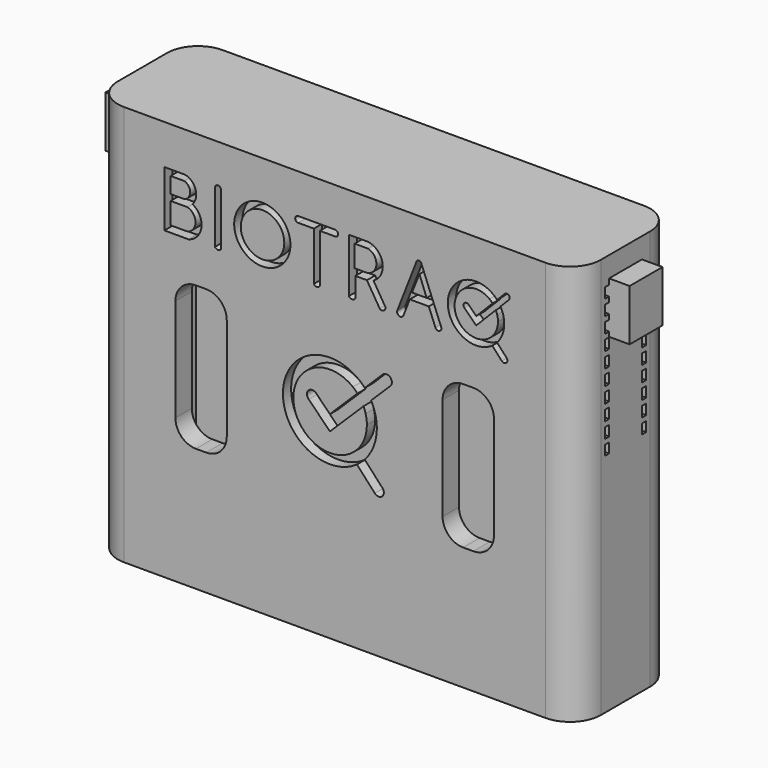
from build123d import *

# Parameters (mm, degrees)
F0_W          = 47
F0_H          = 37
F1_DEPTH      = 12
F2_T          = -2
F3_W          = 5
F3_H          = 14
F4_DEPTH      = 2
F5_R          = 2
F6_W          = 0.5
F6_H          = 15
F7_DEPTH      = 2.001
F7_DEPTH_BACK = 63.9
F8_W          = 4
F8_H          = 5
F9_DEPTH      = 2
F10_W         = 4
F10_H         = 5
F11_DEPTH     = 2
F12_W         = 0.5
F12_H         = 14.0476711094
F13_DEPTH     = 6.03
F14_W         = 0.5
F14_H         = 15
F15_DEPTH     = 7
F16_W         = 47
F16_H         = 12
F17_DEPTH     = 2
F18_W         = 43
F18_H         = 8
F19_DEPTH     = 25
F20_W         = 43
F20_H         = 0.5
F21_DEPTH     = 8.2
F23_R         = 3
F24_R         = 2.7362900033
F24_R_2       = 2.1157848832
F25_DEPTH     = 1
F26_W         = 6
F26_H         = 0.5
F27_DEPTH     = 47
F28_W         = 0.5
F28_H         = 6
F29_DEPTH     = 0.5
F30_R         = 2.9700586538
F31_DEPTH     = 0.5
F32_W         = 2
F32_H         = 0.5
F33_DEPTH     = 0.5
F34_W         = 0.5
F34_H         = 1
F35_DEPTH     = 47.7


with BuildPart() as f1:
    # F0 (on Front) → F1 (new body)
    with BuildSketch(Plane.XZ):
        with Locations((-23.5, -18.5)):
            Rectangle(F0_W, F0_H)
    extrude(amount=F1_DEPTH)

    # F2
    f2_openings = [f1.faces().sort_by_distance(p)[0] for p in [
        (-23.5, -6, 0),
    ]]
    offset(amount=F2_T, openings=f2_openings)

    # F3 (on face) → F4 (cut, through all)
    with BuildSketch(Plane.XZ.offset(12)):
        with Locations((-10.5, -18)):
            Rectangle(F3_W, F3_H)
        with Locations((-36.5, -18)):
            Rectangle(F3_W, F3_H)
    extrude(amount=-F4_DEPTH, mode=Mode.SUBTRACT)

    # F5
    f5_edges = [f1.edges().sort_by_distance(p)[0] for p in [
        (-8, -11, -11),
        (-13, -11, -11),
        (-8, -11, -25),
        (-13, -11, -25),
        (-39, -11, -25),
        (-34, -11, -25),
        (-34, -11, -11),
        (-39, -11, -11),
    ]]
    fillet(f5_edges, radius=F5_R)

    # F6 (on face) → F7 (cut, two sides)
    with BuildSketch(Plane.YZ.offset(-45)) as f7_sk:
        with Locations((-8.25, -7.5)):
            Rectangle(F6_W, F6_H)
        with Locations((-3.75, -7.5)):
            Rectangle(F6_W, F6_H)
    extrude(amount=-F7_DEPTH, mode=Mode.SUBTRACT)
    extrude(f7_sk.sketch, amount=F7_DEPTH_BACK, mode=Mode.SUBTRACT)

    # F8 (on face) → F9 (join)
    with BuildSketch(Plane(origin=(-47, 0, 0), x_dir=(0, -1, 0), z_dir=(-1, 0, 0))):
        with Locations((6, -2.5)):
            Rectangle(F8_W, F8_H)
    extrude(amount=F9_DEPTH)

    # F10 (on face) → F11 (join)
    with BuildSketch(Plane.YZ):
        with Locations((-6, -2.5)):
            Rectangle(F10_W, F10_H)
    extrude(amount=F11_DEPTH)

    # F12 (on face) → F13 (join)
    with BuildSketch(Plane(origin=(0, -8.5, 0), x_dir=(-1, 0, 0), z_dir=(0, 1, 0))):
        with Locations((0.25, -7.0238355547)):
            Rectangle(F12_W, F12_H)
    extrude(amount=F13_DEPTH)

    # F14 (on face) → F15 (join)
    with BuildSketch(Plane(origin=(0, -8.5, 0), x_dir=(-1, 0, 0), z_dir=(0, 1, 0))):
        with Locations((46.75, -7.5)):
            Rectangle(F14_W, F14_H)
    extrude(amount=F15_DEPTH)

    # F16 (on face) → F17 (join)
    with BuildSketch(Plane.XY):
        with Locations((-23.5, -6)):
            Rectangle(F16_W, F16_H)
    extrude(amount=F17_DEPTH)

    # F18 (on face) → F19 (cut)
    with BuildSketch(Plane.XY.offset(-35)):
        with Locations((-23.5, -6)):
            Rectangle(F18_W, F18_H)
    extrude(amount=-F19_DEPTH, mode=Mode.SUBTRACT)

    # F20 (on face) → F21 (join)
    with BuildSketch(Plane(origin=(0, -10, 0), x_dir=(-1, 0, 0), z_dir=(0, 1, 0))):
        with Locations((23.5, -35.75)):
            Rectangle(F20_W, F20_H)
    extrude(amount=F21_DEPTH)

    # F23
    f23_edges = [f1.edges().sort_by_distance(p)[0] for p in [
        (-47, 0, -17.5),
        (-47, -12, -17.5),
        (0, -12, -17.5),
        (0, 0, -17.5),
    ]]
    fillet(f23_edges, radius=F23_R)

    # F24 (on face) → F25 (cut)
    with BuildSketch(Plane.XZ.offset(12)):
        with BuildLine():
            ThreePointArc((-20.5728843201, -20.5795478926), (-19.6984030514, -19.1565371108), (-19.3933401324, -17.5144001525))
            ThreePointArc((-19.3933401324, -17.5144001525), (-19.4712159392, -16.6741155837), (-19.7021905835, -15.8624546253))
            Line((-19.7021905835, -15.8624546253), (-20.4843721019, -16.6338857686))
            ThreePointArc((-20.4843721019, -16.6338857686), (-20.3965531696, -17.0842553951), (-20.3671186958, -17.5421621292))
            ThreePointArc((-20.3671186958, -17.5421621292), (-27.1613248211, -19.1034948259), (-21.7303272912, -14.7327669125))
            Line((-21.7303272912, -14.7327669125), (-21.0180214751, -14.0190510743))
            ThreePointArc((-21.0180214751, -14.0190510743), (-28.5336841312, -17.3172567557), (-21.3301181648, -21.2507009518))
            ThreePointArc((-21.3301181648, -21.2507009518), (-20.9328782017, -20.9361360179), (-20.5728843201, -20.5795478926))
        make_face()
        with BuildLine():
            Line((-20.4843721019, -16.6338857686), (-19.7021905835, -15.8624546253))
            ThreePointArc((-19.7021905835, -15.8624546253), (-19.8195626505, -15.5867157554), (-19.954745532, -15.3192578801))
            Line((-19.954745532, -15.3192578801), (-20.6940144281, -16.0483661961))
            ThreePointArc((-20.6940144281, -16.0483661961), (-20.5764421059, -16.3365604942), (-20.4843721019, -16.6338857686))
        make_face()
        with BuildLine():
            Line((-18.8466788766, -22.4667321914), (-20.5728843201, -20.5795478926))
            ThreePointArc((-20.5728843201, -20.5795478926), (-20.9328782017, -20.9361360179), (-21.3301181648, -21.2507009518))
            Line((-21.3301181648, -21.2507009518), (-19.5932113241, -23.1495846163))
            ThreePointArc((-19.5932113241, -23.1495846163), (-18.8785188879, -23.1814246276), (-18.8466788766, -22.4667321914))
        make_face()
        with BuildLine():
            Line((-20.6940144281, -16.0483661961), (-19.954745532, -15.3192578801))
            ThreePointArc((-19.954745532, -15.3192578801), (-20.2385271569, -14.8659000395), (-20.5733085862, -14.4487828656))
            Line((-20.5733085862, -14.4487828656), (-21.284525808, -15.1503881645))
            ThreePointArc((-21.284525808, -15.1503881645), (-20.9553472131, -15.5770694392), (-20.6940144281, -16.0483661961))
        make_face()
        with BuildLine():
            ThreePointArc((-20.5733085862, -14.4487828656), (-20.2385271569, -14.8659000395), (-19.954745532, -15.3192578801))
            Line((-19.954745532, -15.3192578801), (-18.0931513891, -13.4832496591))
            ThreePointArc((-18.0931513891, -13.4832496591), (-18.0879924427, -12.7376938769), (-18.833548225, -12.7325349305))
            Line((-18.833548225, -12.7325349305), (-20.5733085862, -14.4487828656))
        make_face()
        with BuildLine():
            Line((-21.284525808, -15.1503881645), (-20.5733085862, -14.4487828656))
            ThreePointArc((-20.5733085862, -14.4487828656), (-20.7883913969, -14.2263897663), (-21.0180214751, -14.0190510743))
            Line((-21.0180214751, -14.0190510743), (-21.7303272912, -14.7327669125))
            ThreePointArc((-21.7303272912, -14.7327669125), (-21.4984941595, -14.9320424089), (-21.284525808, -15.1503881645))
        make_face()
        with BuildLine():
            Line((-38.0383308608, -1.8654211819), (-40.0665676892, -1.8654211819))
            Line((-40.0665676892, -1.8654211819), (-40.0665676892, -7.2951896792))
            Line((-40.0665676892, -7.2951896792), (-37.7210633995, -7.2951896792))
            ThreePointArc((-37.7210633995, -7.2951896792), (-36.4603059484, -5.8549955702), (-37.3324705497, -4.1511771144))
            ThreePointArc((-37.3324705497, -4.1511771144), (-37.0340153883, -2.8071459822), (-38.0383308608, -1.8654211819))
        make_face()
        with BuildLine():
            Line((-39.4670441566, -4.5707993741), (-37.8202500565, -4.5707993741))
            ThreePointArc((-37.8202500565, -4.5707993741), (-37.0371967223, -5.6126875292), (-37.8202500565, -6.6545756842))
            Line((-37.8202500565, -6.6545756842), (-39.4670441566, -6.659690276))
            Line((-39.4670441566, -6.659690276), (-39.4670441566, -4.5707993741))
        make_face(mode=Mode.SUBTRACT)
        with BuildLine():
            Line((-39.4723674549, -3.9819317658), (-39.4723674549, -2.430800331))
            Line((-39.4723674549, -2.430800331), (-38.1254027467, -2.430800331))
            ThreePointArc((-38.1254027467, -2.430800331), (-37.5587012486, -3.2115332232), (-38.1393737232, -3.9819317658))
            Line((-38.1393737232, -3.9819317658), (-39.4723674549, -3.9819317658))
        make_face(mode=Mode.SUBTRACT)
        with BuildLine():
            ThreePointArc((-34.5539088982, -2.0311849796), (-34.8448692725, -1.7353215637), (-35.1455531191, -2.0212976548))
            Line((-35.1455531191, -2.0212976548), (-35.1455531191, -7.1059873253))
            ThreePointArc((-35.1455531191, -7.1059873253), (-34.8500147243, -7.263741134), (-34.5539088982, -7.1070549931))
            Line((-34.5539088982, -7.1070549931), (-34.5539088982, -2.0311849796))
        make_face()
        with Locations((-30.5411206815, -4.5440113668)):
            Circle(F24_R)
        with Locations((-30.5191329073, -4.5598566823)):
            Circle(F24_R_2, mode=Mode.SUBTRACT)
        Polygon((-23.4529985209, -1.8247651555), (-27.0498500927, -1.8247651555), (-27.0464175121, -2.4082726212), (-25.5270556373, -2.4082726212), (-25.5270556373, -7.1472480176), (-24.9446367101, -7.1472480176), (-24.9446367101, -2.4082726212), (-23.4529985209, -2.4082726212), align=None)
        with BuildLine():
            Line((-27.0464175121, -2.4082726212), (-27.0498500927, -1.8247651555))
            ThreePointArc((-27.0498500927, -1.8247651555), (-27.3381762931, -2.118225112), (-27.0464175121, -2.4082726212))
        make_face()
        with BuildLine():
            ThreePointArc((-23.4529985209, -2.4082726212), (-23.161244788, -2.1165188883), (-23.4529985209, -1.8247651555))
            Line((-23.4529985209, -1.8247651555), (-23.4529985209, -2.4082726212))
        make_face()
        with BuildLine():
            Line((-24.9446367101, -7.1472480176), (-25.5270556373, -7.1472480176))
            ThreePointArc((-25.5270556373, -7.1472480176), (-25.2358461737, -7.3046812538), (-24.9446367101, -7.1472480176))
        make_face()
        with BuildLine():
            Line((-20.2367403934, -1.8247651555), (-22.1165857335, -1.8247651555))
            Line((-22.1165857335, -1.8247651555), (-22.1165857335, -7.0792547042))
            ThreePointArc((-22.1165857335, -7.0792547042), (-21.8038571139, -7.2564155541), (-21.4911284943, -7.0792547042))
            Line((-21.4911284943, -7.0792547042), (-21.4911284943, -5.147409498))
            Line((-21.4911284943, -5.147409498), (-20.3627244988, -5.147409498))
            Line((-20.3627244988, -5.147409498), (-19.1079390394, -7.1909517419))
            ThreePointArc((-19.1079390394, -7.1909517419), (-18.7180142691, -7.2185858288), (-18.5662547716, -6.8583442097))
            Line((-18.5662547716, -6.8583442097), (-19.7260430763, -4.9695142292))
            ThreePointArc((-19.7260430763, -4.9695142292), (-18.8422287046, -3.2121432142), (-20.2367403934, -1.8247651555))
        make_face()
        with BuildLine():
            ThreePointArc((-20.2367403934, -2.4065045623), (-19.4400811352, -3.4821922863), (-20.2904696085, -4.5159279865))
            Line((-20.2904696085, -4.5159279865), (-21.5592036579, -4.5159279865))
            Line((-21.5592036579, -4.5159279865), (-21.5592036579, -2.4065045623))
            Line((-21.5592036579, -2.4065045623), (-20.2367403934, -2.4065045623))
        make_face(mode=Mode.SUBTRACT)
        with BuildLine():
            ThreePointArc((-15.0820784855, -1.9579785402), (-15.3084781047, -1.8075519946), (-15.529594021, -1.9656427433))
            Line((-15.529594021, -1.9656427433), (-17.4025741998, -6.7776087496))
            ThreePointArc((-17.4025741998, -6.7776087496), (-17.2203919427, -7.1919961116), (-16.8060045807, -7.0098138546))
            Line((-16.8060045807, -7.0098138546), (-16.1929715049, -5.4348402619))
            Line((-16.1929715049, -5.4348402619), (-14.3390108788, -5.4348402619))
            Line((-14.3390108788, -5.4348402619), (-13.6972731333, -7.0379694102))
            ThreePointArc((-13.6972731333, -7.0379694102), (-13.3057944543, -7.2056248901), (-13.1381389744, -6.8141462111))
            Line((-13.1381389744, -6.8141462111), (-15.0820784855, -1.9579785402))
        make_face()
        Polygon((-15.9787024284, -4.7780474949), (-15.2517713888, -2.9655609537), (-14.5493739732, -4.7780474949), align=None, mode=Mode.SUBTRACT)
        with BuildLine():
            ThreePointArc((-7.6826488651, -4.0039202077), (-7.6279641418, -4.2767960579), (-7.6096298035, -4.554492836))
            ThreePointArc((-7.6096298035, -4.554492836), (-11.6147691063, -5.4916080536), (-8.4411648259, -2.8748234547))
            Line((-8.4411648259, -2.8748234547), (-8.0223188937, -2.4061846756))
            ThreePointArc((-8.0223188937, -2.4061846756), (-12.4922317176, -4.4544894404), (-8.1643181591, -6.7879069542))
            ThreePointArc((-8.1643181591, -6.7879069542), (-7.9187099771, -6.5927734843), (-7.6969545885, -6.3709064119))
            ThreePointArc((-7.6969545885, -6.3709064119), (-7.1806798412, -5.5212435654), (-7.0007278168, -4.5434481694))
            ThreePointArc((-7.0007278168, -4.5434481694), (-7.0514583977, -4.0180086418), (-7.201776033, -3.5119800878))
            Line((-7.201776033, -3.5119800878), (-7.6826488651, -4.0039202077))
        make_face()
        with BuildLine():
            ThreePointArc((-7.8213208413, -3.632833825), (-7.7432658366, -3.8151187905), (-7.6826488651, -4.0039202077))
            Line((-7.6826488651, -4.0039202077), (-7.201776033, -3.5119800878))
            ThreePointArc((-7.201776033, -3.5119800878), (-7.2786281862, -3.339594847), (-7.3671383618, -3.1728948965))
            Line((-7.3671383618, -3.1728948965), (-7.8213208413, -3.632833825))
        make_face()
        with BuildLine():
            Line((-8.0223188937, -2.4061846756), (-8.4411648259, -2.8748234547))
            ThreePointArc((-8.4411648259, -2.8748234547), (-8.2819777483, -3.0091069727), (-8.1367885721, -3.1584143469))
            Line((-8.1367885721, -3.1584143469), (-7.6983531566, -2.7144220655))
            ThreePointArc((-7.6983531566, -2.7144220655), (-7.8540522963, -2.5536990035), (-8.0223188937, -2.4061846756))
        make_face()
        with BuildLine():
            ThreePointArc((-8.1367885721, -3.1584143469), (-7.9629854565, -3.3849387533), (-7.8213208413, -3.632833825))
            Line((-7.8213208413, -3.632833825), (-7.3671383618, -3.1728948965))
            ThreePointArc((-7.3671383618, -3.1728948965), (-7.5209123026, -2.93510963), (-7.6983531566, -2.7144220655))
            Line((-7.6983531566, -2.7144220655), (-8.1367885721, -3.1584143469))
        make_face()
        with BuildLine():
            ThreePointArc((-7.6983531566, -2.7144220655), (-7.5209123026, -2.93510963), (-7.3671383618, -3.1728948965))
            Line((-7.3671383618, -3.1728948965), (-6.5459353105, -2.3412836641))
            ThreePointArc((-6.5459353105, -2.3412836641), (-6.5484191181, -1.94685618), (-6.9428466022, -1.9493399876))
            Line((-6.9428466022, -1.9493399876), (-7.6983531566, -2.7144220655))
        make_face()
        with BuildLine():
            ThreePointArc((-7.6969545885, -6.3709064119), (-7.9187099771, -6.5927734843), (-8.1643181591, -6.7879069542))
            Line((-8.1643181591, -6.7879069542), (-7.235734986, -7.8016477565))
            ThreePointArc((-7.235734986, -7.8016477565), (-6.7932993523, -7.8210455347), (-6.7739015741, -7.3786099009))
            Line((-6.7739015741, -7.3786099009), (-7.6969545885, -6.3709064119))
        make_face()
        with BuildLine():
            Line((-23.9656381743, -19.2750244429), (-20.6940144281, -16.0483661961))
            ThreePointArc((-20.6940144281, -16.0483661961), (-20.9553472131, -15.5770694392), (-21.284525808, -15.1503881645))
            Line((-21.284525808, -15.1503881645), (-23.9656381743, -17.7952659676))
            Line((-23.9656381743, -17.7952659676), (-25.3068475824, -16.4356821238))
            ThreePointArc((-25.3068475824, -16.4356821238), (-26.0536329906, -16.4423715812), (-26.0234110726, -17.1885751931))
            Line((-26.0234110726, -17.1885751931), (-23.9656381743, -19.2750244429))
        make_face()
        with BuildLine():
            Line((-9.7343307703, -5.5700898327), (-7.8213208413, -3.632833825))
            ThreePointArc((-7.8213208413, -3.632833825), (-7.9629854565, -3.3849387533), (-8.1367885721, -3.1584143469))
            Line((-8.1367885721, -3.1584143469), (-9.721831713, -4.763546814))
            Line((-9.721831713, -4.763546814), (-10.4731251677, -4.0216563087))
            ThreePointArc((-10.4731251677, -4.0216563087), (-10.8803347851, -4.0225079758), (-10.8794831181, -4.4297175932))
            Line((-10.8794831181, -4.4297175932), (-9.7343307703, -5.5700898327))
        make_face()
    extrude(amount=-F25_DEPTH, mode=Mode.SUBTRACT)

    # F26 (on face) → F27 (cut, through all)
    with BuildSketch(Plane(origin=(-47, 0, 0), x_dir=(0, -1, 0), z_dir=(-1, 0, 0))):
        with Locations((6, 0.25)):
            Rectangle(F26_W, F26_H)
    extrude(amount=-F27_DEPTH, mode=Mode.SUBTRACT)

    # F28 (on face) → F29 (join, through all)
    with BuildSketch(Plane.XY):
        with Locations((-0.25, -6)):
            Rectangle(F28_W, F28_H)
    extrude(amount=F29_DEPTH)

    # F30 (on face) → F31 (cut, through all)
    with BuildSketch(Plane(origin=(0, 0, -36), x_dir=(1, 0, 0), z_dir=(0, 0, -1))):
        with BuildLine():
            ThreePointArc((-41.036274467, 6), (-38.0662158132, 3.0299413462), (-35.0961571594, 6))
            Line((-35.0961571594, 6), (-41.036274467, 6))
        make_face()
        with BuildLine():
            Line((-41.036274467, 6), (-35.0961571594, 6))
            ThreePointArc((-35.0961571594, 6), (-38.0662158132, 8.9700586538), (-41.036274467, 6))
        make_face()
        with BuildLine():
            ThreePointArc((-25.0961571594, 6), (-28.0662158132, 8.9700586538), (-31.036274467, 6))
            ThreePointArc((-31.036274467, 6), (-28.0662158132, 3.0299413462), (-25.0961571594, 6))
        make_face()
        with Locations((-18.0662158132, 6)):
            Circle(F30_R)
        with Locations((-8.0662158132, 6)):
            Circle(F30_R)
    extrude(amount=-F31_DEPTH, mode=Mode.SUBTRACT)

    # F32 (on face) → F33 (join, through all)
    with BuildSketch(Plane.XY):
        with Locations((-46, -3.25)):
            Rectangle(F32_W, F32_H)
        with Locations((-46, -8.75)):
            Rectangle(F32_W, F32_H)
    extrude(amount=F33_DEPTH)

    # F34 (on face) → F35 (cut)
    with BuildSketch(Plane.YZ):
        with Locations((-3.75, -13.0476711094)):
            Rectangle(F34_W, F34_H)
        with Locations((-3.75, -11.5476711094)):
            Rectangle(F34_W, F34_H)
        with Locations((-3.75, -10.0476711094)):
            Rectangle(F34_W, F34_H)
        with Locations((-3.75, -8.5476711094)):
            Rectangle(F34_W, F34_H)
        with Locations((-3.75, -7.0476711094)):
            Rectangle(F34_W, F34_H)
        with Locations((-3.75, -5.5476711094)):
            Rectangle(F34_W, F34_H)
        with Locations((-3.75, -4.0476711094)):
            Rectangle(F34_W, F34_H)
        with Locations((-3.75, -2.5476711094)):
            Rectangle(F34_W, F34_H)
        with Locations((-3.75, -1.0476711094)):
            Rectangle(F34_W, F34_H)
        with Locations((-8.25, -13.0476711094)):
            Rectangle(F34_W, F34_H)
        with Locations((-8.25, -1.0476711094)):
            Rectangle(F34_W, F34_H)
        with Locations((-8.25, -4.0476711094)):
            Rectangle(F34_W, F34_H)
        with Locations((-8.25, -10.0476711094)):
            Rectangle(F34_W, F34_H)
        with Locations((-8.25, -8.5476711094)):
            Rectangle(F34_W, F34_H)
        with Locations((-8.25, -11.5476711094)):
            Rectangle(F34_W, F34_H)
        with Locations((-8.25, -5.5476711094)):
            Rectangle(F34_W, F34_H)
        with Locations((-8.25, -2.5476711094)):
            Rectangle(F34_W, F34_H)
        with Locations((-8.25, -7.0476711094)):
            Rectangle(F34_W, F34_H)
    extrude(amount=-F35_DEPTH, mode=Mode.SUBTRACT)


solid = f1.part
